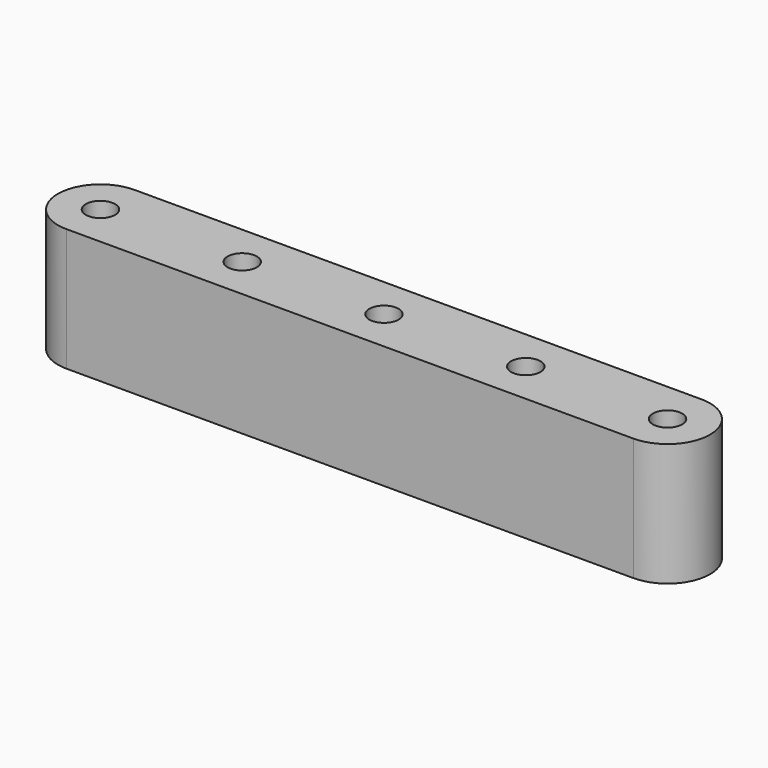
from build123d import *

# Parameters (mm, degrees)
SKETCH_R  = 1.55
PAD_DEPTH = 13


with BuildPart() as part:
    # Sketch → Pad (new body)
    with BuildSketch(Plane.XY):
        with BuildLine():
            ThreePointArc((-30, 4.5), (-34.5, 0), (-30, -4.5))
            Line((-30, -4.5), (30, -4.5))
            ThreePointArc((30, -4.5), (34.5, 0), (30, 4.5))
            Line((30, 4.5), (-30, 4.5))
        make_face()
        with Locations((-30, 0)):
            Circle(SKETCH_R, mode=Mode.SUBTRACT)
        with Locations((30, 0)):
            Circle(SKETCH_R, mode=Mode.SUBTRACT)
        Circle(SKETCH_R, mode=Mode.SUBTRACT)
        with Locations((-15, 0)):
            Circle(SKETCH_R, mode=Mode.SUBTRACT)
        with Locations((15, 0)):
            Circle(SKETCH_R, mode=Mode.SUBTRACT)
    extrude(amount=PAD_DEPTH)


solid = part.part
